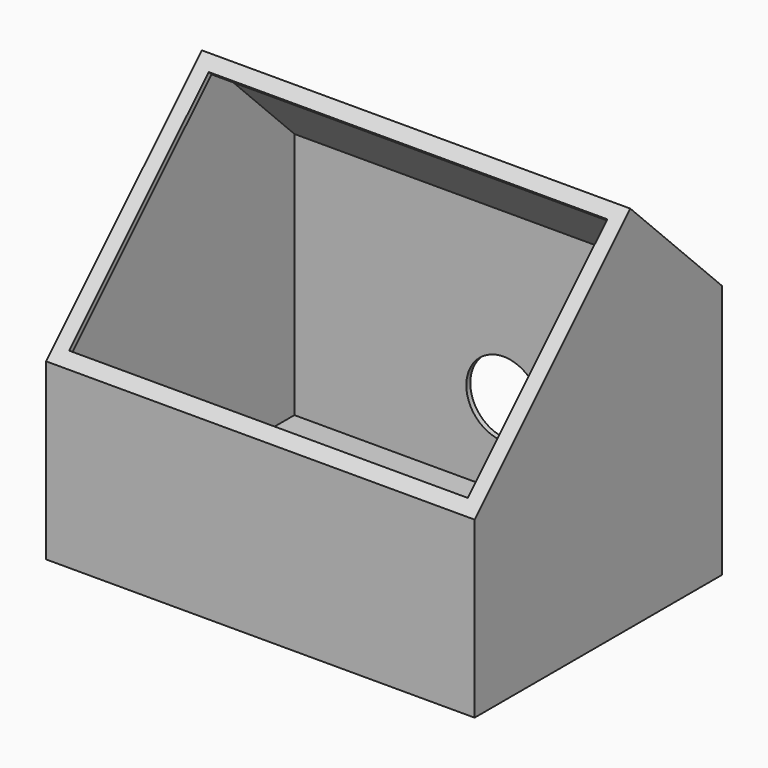
from build123d import *

# Parameters (mm, degrees)
F1_DEPTH = 86
F2_W     = 160
F2_H     = 99
F3_DEPTH = 25
F4_R     = 15
F5_DEPTH = 25
F7_DEPTH = 2
F9_DEPTH = 2


with BuildPart() as f1:
    # F0 (on Right) → F1 (new body, symmetric)
    with BuildSketch(Plane.YZ):
        Polygon((63.122124, 2.497642), (17.160184, 48.459583), (-60.975116, -29.675717), (-60.975116, -99.675717), (63.122124, -99.675717), align=None)
        Polygon((61.122124, -97.675716), (-58.975115, -97.675716), (-58.975115, -30.504144), (17.160184, 45.631155), (61.122124, 1.669215), align=None, mode=Mode.SUBTRACT)
    extrude(amount=F1_DEPTH, both=True)

    # F2 (on face) → F3 (cut)
    with BuildSketch(Plane(origin=(0, -15.6497, 15.6497), x_dir=(1, 0, 0), z_dir=(0, -0.707107, 0.707107))):
        with Locations((0, -8.849818)):
            Rectangle(F2_W, F2_H)
    extrude(amount=-F3_DEPTH, mode=Mode.SUBTRACT)

    # F4 (on face) → F5 (cut)
    with BuildSketch(Plane(origin=(0, 63.122124, 0), x_dir=(-1, 0, 0), z_dir=(0, 1, 0))):
        with Locations((0, -64.675717)):
            Circle(F4_R)
    extrude(amount=-F5_DEPTH, mode=Mode.SUBTRACT)

    # F6 (on face) → F7 (join)
    with BuildSketch(Plane.YZ.offset(86)):
        Polygon((63.122124, 2.497642), (17.160184, 48.459583), (-60.975116, -29.675717), (-60.975116, -99.675717), (63.122124, -99.675717), align=None)
    extrude(amount=-F7_DEPTH)

    # F8 (on face) → F9 (join)
    with BuildSketch(Plane(origin=(-86, 0, 0), x_dir=(0, -1, 0), z_dir=(-1, 0, 0))):
        Polygon((-17.160184, 48.459583), (-63.122124, 2.497642), (-63.122124, -99.675717), (60.975116, -99.675717), (60.975116, -29.675717), align=None)
    extrude(amount=-F9_DEPTH)


solid = f1.part
